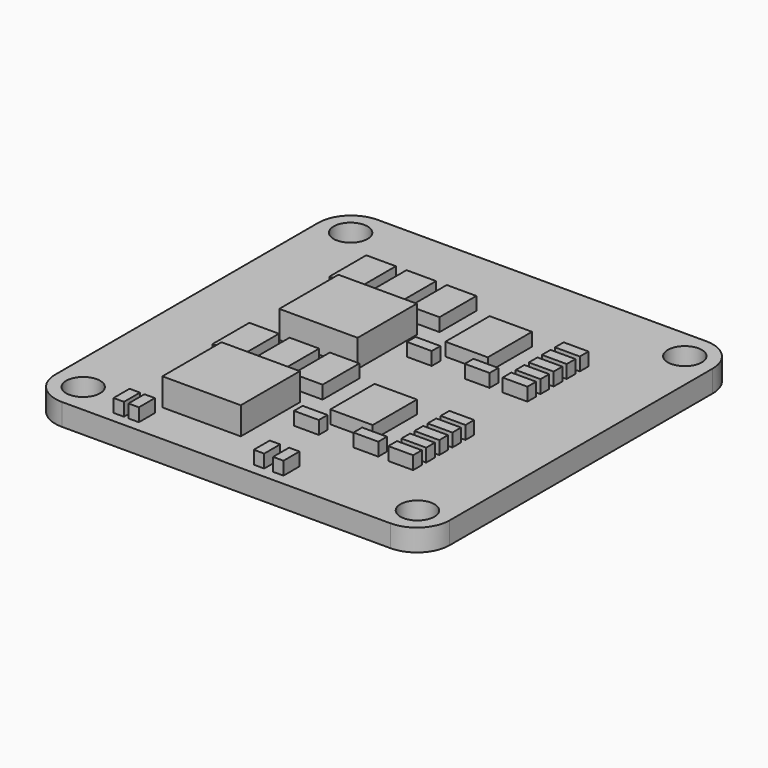
from build123d import *

# Parameters (mm, degrees)
F0_W     = 36
F0_H     = 36
F0_R     = 1.55
F1_DEPTH = 2
F2_W     = 2.7
F2_H     = 4.2
F2_W_2   = 3.866767
F2_H_2   = 5.045659
F2_W_3   = 2.263
F2_H_3   = 0.99
F2_W_4   = 0.951673
F2_H_4   = 1.824041
F2_W_5   = 0.951672
F3_DEPTH = 1.2
F4_W     = 7.152574
F4_H     = 6.745152
F4_H_2   = 6.741168
F5_DEPTH = 2.5
F6_R     = 3


with BuildPart() as f1:
    # F0 (on Top) → F1 (new body)
    with BuildSketch(Plane.XY):
        Rectangle(F0_W, F0_H)
        with Locations((-15.25, -15.25)):
            Circle(F0_R, mode=Mode.SUBTRACT)
        with Locations((15.25, -15.25)):
            Circle(F0_R, mode=Mode.SUBTRACT)
        with Locations((-15.25, 15.25)):
            Circle(F0_R, mode=Mode.SUBTRACT)
        with Locations((15.25, 15.25)):
            Circle(F0_R, mode=Mode.SUBTRACT)
    extrude(amount=F1_DEPTH)

    # F2 (on face) → F3 (join)
    with BuildSketch(Plane.XY.offset(2)):
        with Locations((-9.406283, 9.322272)):
            Rectangle(F2_W, F2_H)
        with Locations((-9.406283, -4.017373)):
            Rectangle(F2_W, F2_H)
        with Locations((-5.734202, 9.322272)):
            Rectangle(F2_W, F2_H)
        with Locations((-5.734202, -4.017373)):
            Rectangle(F2_W, F2_H)
        with Locations((-2.062121, 9.322272)):
            Rectangle(F2_W, F2_H)
        with Locations((-2.062121, -4.017373)):
            Rectangle(F2_W, F2_H)
        with Locations((3.909136, 7.057227)):
            Rectangle(F2_W_2, F2_H_2)
        with Locations((4.035184, -6.228325)):
            Rectangle(F2_W_2, F2_H_2)
        with Locations((9.751364, 9.226358)):
            Rectangle(F2_W_3, F2_H_3)
        with Locations((9.751364, 7.733123)):
            Rectangle(F2_W_3, F2_H_3)
        with Locations((9.751364, 6.239888)):
            Rectangle(F2_W_3, F2_H_3)
        with Locations((9.751364, 4.746653)):
            Rectangle(F2_W_3, F2_H_3)
        with Locations((9.751364, 3.253418)):
            Rectangle(F2_W_3, F2_H_3)
        with Locations((9.994023, -4.120474)):
            Rectangle(F2_W_3, F2_H_3)
        with Locations((9.994023, -5.613709)):
            Rectangle(F2_W_3, F2_H_3)
        with Locations((9.994023, -7.106944)):
            Rectangle(F2_W_3, F2_H_3)
        with Locations((9.994023, -8.600179)):
            Rectangle(F2_W_3, F2_H_3)
        with Locations((9.994023, -10.093414)):
            Rectangle(F2_W_3, F2_H_3)
        with Locations((0.984356, 3.291811)):
            Rectangle(F2_W_3, F2_H_3)
        with Locations((6.319413, 3.225123)):
            Rectangle(F2_W_3, F2_H_3)
        with Locations((1.351141, -10.045832)):
            Rectangle(F2_W_3, F2_H_3)
        with Locations((6.750784, -10.012488)):
            Rectangle(F2_W_3, F2_H_3)
        with Locations((-10.585669, -16.109239)):
            Rectangle(F2_W_4, F2_H_4)
        with Locations((-9.228029, -16.109239)):
            Rectangle(F2_W_4, F2_H_4)
        with Locations((2.207651, -16.109239)):
            Rectangle(F2_W_4, F2_H_4)
        with Locations((3.96747, -16.109239)):
            Rectangle(F2_W_5, F2_H_4)
    extrude(amount=F3_DEPTH)

    # F4 (on face) → F5 (join)
    with BuildSketch(Plane.XY.offset(2)):
        with Locations((-5.296527, 2.516344)):
            Rectangle(F4_W, F4_H)
        with Locations((-5.296527, -10.817411)):
            Rectangle(F4_W, F4_H_2)
    extrude(amount=F5_DEPTH)

    # F6
    f6_edges = [f1.edges().sort_by_distance(p)[0] for p in [
        (-18, 18, 1),
        (-18, -18, 1),
        (18, -18, 1),
        (18, 18, 1),
    ]]
    fillet(f6_edges, radius=F6_R)


solid = f1.part
